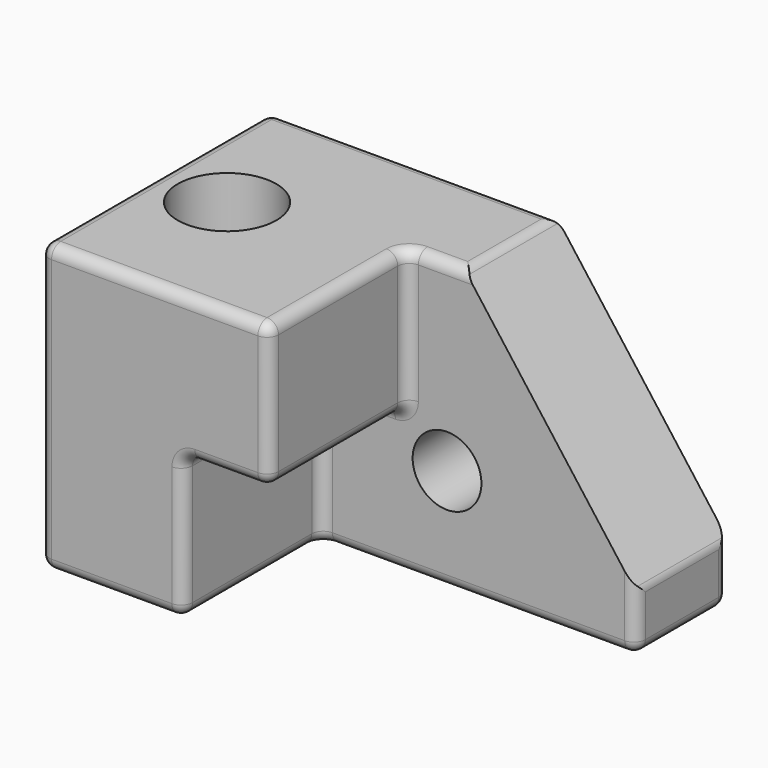
from build123d import *

# Parameters (mm, degrees)
F0_W     = 203.2
F0_H     = 127
F1_DEPTH = 127
F3_DEPTH = 76.2
F4_SIZE2 = 101.6
F4_SIZE  = 76.2
F5_R     = 5.08
F6_R     = 15.24
F7_DEPTH = 50.801
F8_R     = 21.8504369972
F9_DEPTH = 127.001


with BuildPart() as f1:
    # F0 (on Front) → F1 (new body)
    with BuildSketch(Plane.XZ):
        with Locations((3.2226219773, -13.3488786947)):
            Rectangle(F0_W, F0_H)
    extrude(amount=F1_DEPTH)

    # F2 (on face) → F3 (cut)
    with BuildSketch(Plane.XZ.offset(127)):
        Polygon((-34.8773780227, -13.3488786947), (-34.8773780227, -76.8488786947), (104.8226219773, -76.8488786947), (104.8226219773, 50.1511213053), (3.2226219773, 50.1511213053), (3.2226219773, -13.3488786947), align=None)
    extrude(amount=-F3_DEPTH, mode=Mode.SUBTRACT)

    # F4
    f4_edges = [f1.edges().sort_by_distance(p)[0] for p in [
        (104.822622, -25.4, 50.151121),
    ]]
    f4_side = f1.faces().sort_by_distance((-18.548807, -52.614286, 50.151121))[0]
    chamfer(f4_edges, length=F4_SIZE, length2=F4_SIZE2, reference=f4_side)

    # F5
    f5_edges = [f1.edges().sort_by_distance(p)[0] for p in [
        (3.222622, -88.9, 50.151121),
        (-47.577378, -127, 50.151121),
        (-34.877378, 0, 50.151121),
        (28.622622, -25.4, 50.151121),
        (-98.377378, -63.5, 50.151121),
        (15.922622, -50.8, 50.151121),
        (3.222622, -88.9, -13.348879),
        (-34.877378, -88.9, -13.348879),
        (-15.827378, -127, -13.348879),
        (-15.827378, -50.8, -13.348879),
        (3.222622, -127, 18.401121),
        (3.222622, -50.8, 18.401121),
        (-34.877378, -88.9, -76.848879),
        (-34.877378, -127, -45.098879),
        (-34.877378, -50.8, -45.098879),
        (104.822622, 0, -64.148879),
        (104.822622, -25.4, -51.448879),
        (104.822622, -25.4, -76.848879),
        (104.822622, -50.8, -64.148879),
        (3.222622, 0, -76.848879),
        (34.972622, -50.8, -76.848879),
        (-66.627378, -127, -76.848879),
        (-98.377378, -63.5, -76.848879),
        (-98.377378, 0, -13.348879),
        (-98.377378, -127, -13.348879),
    ]]
    fillet(f5_edges, radius=F5_R)

    # F6 (on face) → F7 (cut, through all)
    with BuildSketch(Plane.XZ.offset(50.8)):
        with Locations((21.0026219773, -31.1288786947)):
            Circle(F6_R)
    extrude(amount=-F7_DEPTH, mode=Mode.SUBTRACT)

    # F8 (on face) → F9 (cut, through all)
    with BuildSketch(Plane.XY.offset(50.1511213053)):
        with Locations((-66.7120441794, -63.0343332887)):
            Circle(F8_R)
    extrude(amount=-F9_DEPTH, mode=Mode.SUBTRACT)


solid = f1.part
